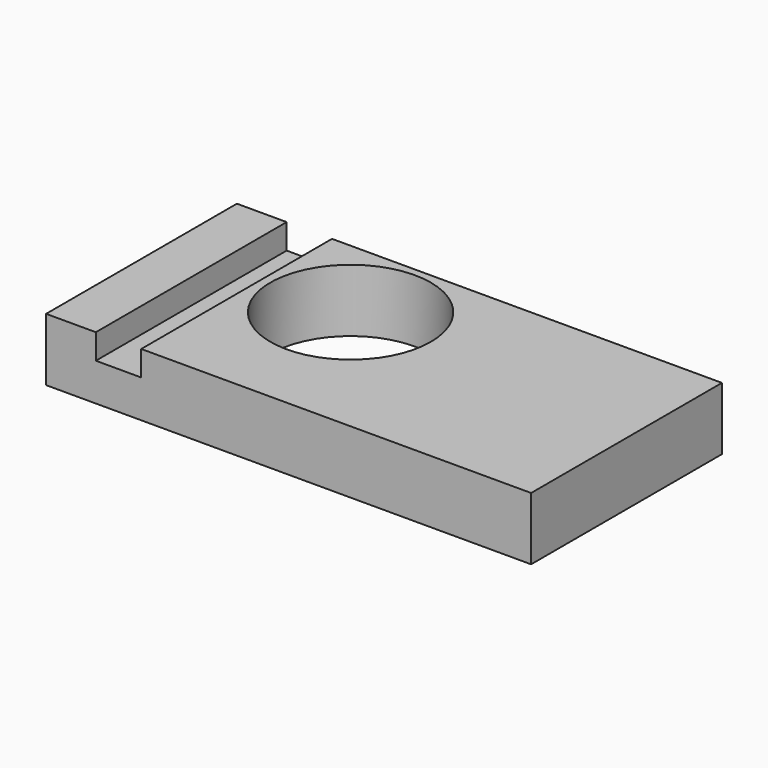
from build123d import *

# Parameters (mm, degrees)
F1_W     = 193.111338
F1_H     = 94.960518
F1_R     = 31.947314
F2_DEPTH = 25
F3_W     = 18.067792
F3_H     = 94.960518
F4_DEPTH = 10


with BuildPart() as f2:
    # F1 (on face) → F2 (new body)
    with BuildSketch(Plane.XY):
        with Locations((6.428104, -3.145333)):
            Rectangle(F1_W, F1_H)
        with Locations((-16.882088, 9.368486)):
            Circle(F1_R, mode=Mode.SUBTRACT)
    extrude(amount=F2_DEPTH)

    # F3 (on face) → F4 (cut)
    with BuildSketch(Plane.XY.offset(25)):
        with Locations((-61.280474, -3.145333)):
            Rectangle(F3_W, F3_H)
    extrude(amount=-F4_DEPTH, mode=Mode.SUBTRACT)


solid = f2.part
